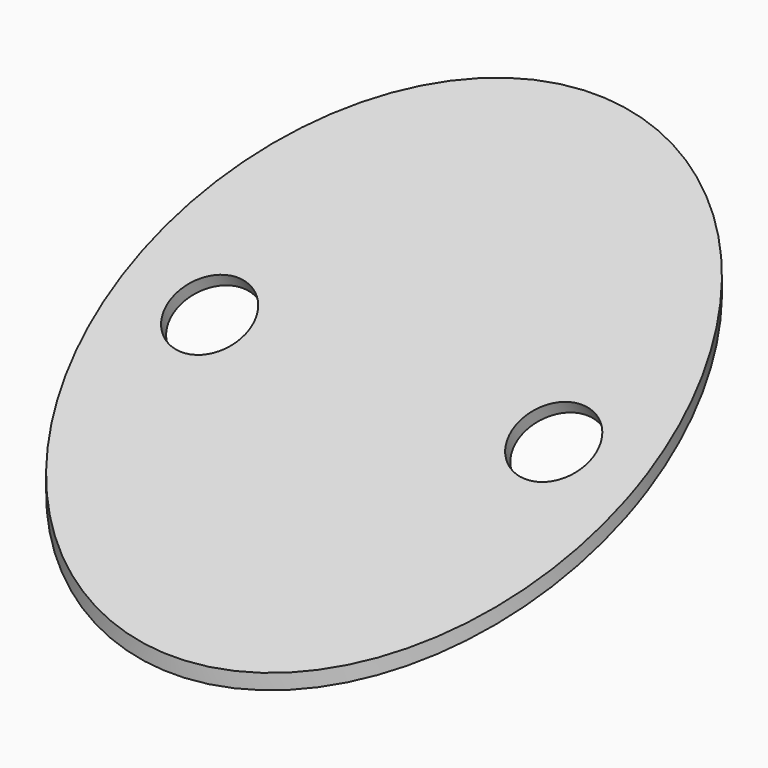
from build123d import *

# Parameters (mm, degrees)
F0_R      = 15.875
F1_DEPTH  = 25.4
F5_R      = 28.0073181772
F6_DEPTH  = 25.4
F7_R      = 26.7212354085
F8_DEPTH  = 25.4
F9_R      = 2.3876
F10_DEPTH = 25.4


with BuildPart() as f1:
    # F0 (on Top) → F1 (new body)
    with BuildSketch(Plane.XY):
        Circle(F0_R)
    extrude(amount=F1_DEPTH)

    # F5 (on offset) → F6 (cut)
    with BuildSketch(Plane(origin=(0, -5.645975072, 10.6185347405), x_dir=(1, 0, 0), z_dir=(0, -0.4694715628, 0.8829475929))):
        Circle(F5_R)
    extrude(amount=F6_DEPTH, mode=Mode.SUBTRACT)

    # F7 (on line) → F8 (cut)
    with BuildSketch(Plane(origin=(0, -5.2643885857, 9.900874937), x_dir=(1, 0, 0), z_dir=(0, -0.4694715628, 0.8829475929))):
        with Locations((-3.1001365278, 4.3183793314)):
            Circle(F7_R)
    extrude(amount=-F8_DEPTH, mode=Mode.SUBTRACT)

    # F9 (on line) → F10 (cut)
    with BuildSketch(Plane(origin=(0, -5.2643885857, 9.900874937), x_dir=(1, 0, 0), z_dir=(0, -0.4694715628, 0.8829475929))):
        with Locations((-10.3505, 6.1972388474)):
            Circle(F9_R)
        with Locations((10.3505, 6.1972388474)):
            Circle(F9_R)
    extrude(amount=F10_DEPTH, mode=Mode.SUBTRACT)


solid = f1.part
